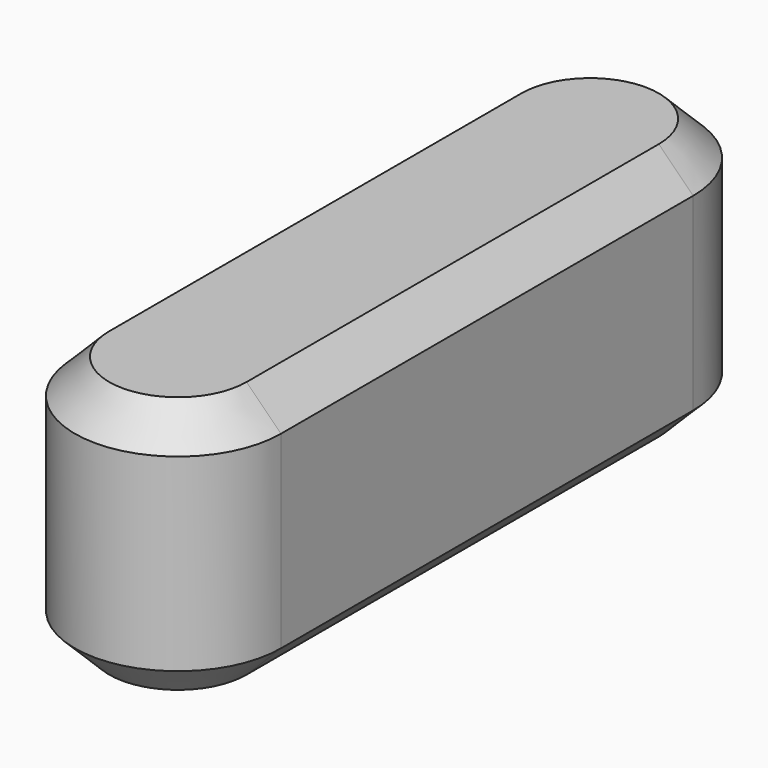
from build123d import *

# Parameters (mm, degrees)
F1_DEPTH = 15
F2_SIZE  = 2


with BuildPart() as f1:
    # F0 (on Top) → F1 (new body)
    with BuildSketch(Plane.XY):
        with BuildLine():
            Line((-6, 15), (-6, 0))
            Line((-6, 0), (-6, -15))
            ThreePointArc((-6, -15), (0, -21), (6, -15))
            Line((6, -15), (6, 0))
            Line((6, 0), (6, 15))
            ThreePointArc((6, 15), (0, 21), (-6, 15))
        make_face()
    extrude(amount=F1_DEPTH)

    # F2
    f2_edges = [f1.edges().sort_by_distance(p)[0] for p in [
        (6, 0, 15),
        (6, 0, 0),
    ]]
    chamfer(f2_edges, length=F2_SIZE)


solid = f1.part
